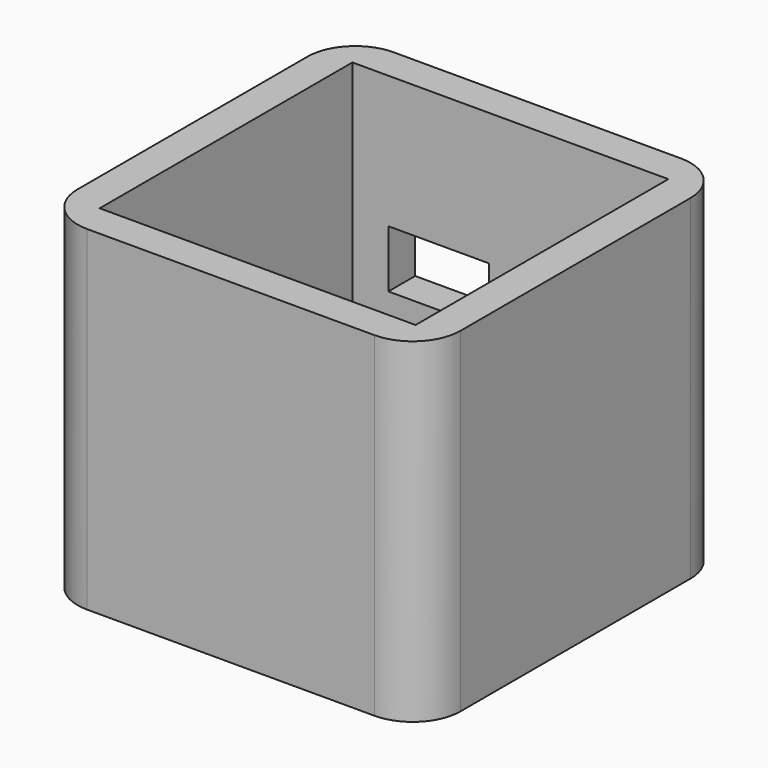
from build123d import *

# Parameters (mm, degrees)
SKETCH004_W     = 40
SKETCH004_H     = 40
PAD001_DEPTH    = 35
FILLET001_R     = 5
SKETCH005_W     = 33
SKETCH005_H     = 33
POCKET003_DEPTH = 7
SKETCH006_W     = 5
SKETCH006_H     = 20
POCKET004_DEPTH = 2
SKETCH007_R     = 3.5
PAD002_DEPTH    = 4
SKETCH009_W     = 33
SKETCH009_H     = 33
POCKET006_DEPTH = 31
SKETCH010_W     = 14
SKETCH010_H     = 8
POCKET007_DEPTH = 4
SKETCH011_W     = 10.5
SKETCH011_H     = 6
POCKET008_DEPTH = 4
PAD003_DEPTH    = 2
SKETCH013_R     = 1.5
POCKET009_DEPTH = 8
POCKET010_DEPTH = 2
PAD004_DEPTH    = 0.4


with BuildPart() as part:
    # Sketch004 → Pad001 (new body)
    with BuildSketch(Plane.XY):
        Rectangle(SKETCH004_W, SKETCH004_H)
    extrude(amount=PAD001_DEPTH)

    # Fillet001
    fillet001_edges = [part.edges().sort_by_distance(p)[0] for p in [
        (-20, -20, 17.5),
        (20, -20, 17.5),
        (20, 20, 17.5),
        (-20, 20, 17.5),
    ]]
    fillet(fillet001_edges, radius=FILLET001_R)

    # Sketch005 (on Face2 of Fillet001) → Pocket003 (cut)
    with BuildSketch(Plane(origin=(0, 0, 0), x_dir=(1, 0, 0), z_dir=(0, 0, -1))):
        Rectangle(SKETCH005_W, SKETCH005_H)
    extrude(amount=-POCKET003_DEPTH, mode=Mode.SUBTRACT)

    # Sketch006 (on Face15 of Pocket003) → Pocket004 (cut)
    with BuildSketch(Plane(origin=(0, 0, 7), x_dir=(1, 0, 0), z_dir=(0, 0, -1))):
        with Locations((13, 4)):
            Rectangle(SKETCH006_W, SKETCH006_H)
    extrude(amount=-POCKET004_DEPTH, mode=Mode.SUBTRACT)

    # Sketch007 (on Face15 of Pocket004) → Pad002 (join)
    with BuildSketch(Plane(origin=(0, 0, 7), x_dir=(1, 0, 0), z_dir=(0, 0, -1))):
        with Locations((-11, 11)):
            Circle(SKETCH007_R)
        with Locations((11, -11)):
            Circle(SKETCH007_R)
    extrude(amount=PAD002_DEPTH)

    # Sketch009 → Pocket006 (cut)
    with BuildSketch(Plane.XY.offset(40)):
        Rectangle(SKETCH009_W, SKETCH009_H)
    extrude(amount=-POCKET006_DEPTH, mode=Mode.SUBTRACT)

    # Sketch010 (on Face14 of Pocket006) → Pocket007 (cut)
    with BuildSketch(Plane.XZ.offset(-16.5)):
        with Locations((-6.75, 5.5)):
            Rectangle(SKETCH010_W, SKETCH010_H)
    extrude(amount=-POCKET007_DEPTH, mode=Mode.SUBTRACT)

    # Sketch011 (on Face17 of Pocket007) → Pocket008 (cut)
    with BuildSketch(Plane.XZ.offset(-16.5)):
        with Locations((-7.49469, 18.159044)):
            Rectangle(SKETCH011_W, SKETCH011_H)
    extrude(amount=-POCKET008_DEPTH, mode=Mode.SUBTRACT)

    # Sketch012 (on Face28 of Pocket008) → Pad003 (join)
    with BuildSketch(Plane.XY.offset(9)):
        with BuildLine():
            Line((16.5, 16.5), (6.5, 16.5))
            Line((6.5, 16.5), (6.5, 10.808341))
            ThreePointArc((6.5, 10.808341), (7.815135, 7.815135), (10.808341, 6.5))
            Line((10.808341, 6.5), (16.5, 6.5))
            Line((16.5, 6.5), (16.5, 16.5))
        make_face()
        with BuildLine():
            Line((-16.5, -16.5), (-6.5, -16.5))
            Line((-6.5, -16.5), (-6.5, -10.808341))
            ThreePointArc((-6.5, -10.808341), (-7.815135, -7.815135), (-10.808341, -6.5))
            Line((-10.808341, -6.5), (-16.5, -6.5))
            Line((-16.5, -6.5), (-16.5, -16.5))
        make_face()
    extrude(amount=PAD003_DEPTH)

    # Sketch013 (on Face45 of Pad003) → Pocket009 (cut)
    with BuildSketch(Plane(origin=(0, 0, 3), x_dir=(1, 0, 0), z_dir=(0, 0, -1))):
        with Locations((-11, 11)):
            Circle(SKETCH013_R)
        with Locations((11, -11)):
            Circle(SKETCH013_R)
    extrude(amount=-POCKET009_DEPTH, mode=Mode.SUBTRACT)

    # Sketch014 (on Face30 of Pocket009) → Pocket010 (cut)
    with BuildSketch(Plane.XY.offset(11)):
        Polygon((13.6, 11), (12.3, 13.251666), (9.7, 13.251666), (8.4, 11), (9.7, 8.748334), (12.3, 8.748334), align=None)
        Polygon((-8.4, -11), (-9.7, -8.748334), (-12.3, -8.748334), (-13.6, -11), (-12.3, -13.251666), (-9.7, -13.251666), align=None)
    extrude(amount=-POCKET010_DEPTH, mode=Mode.SUBTRACT)

    # Sketch015 (on Face27 of Pocket010) → Pad004 (join)
    with BuildSketch(Plane(origin=(0, 0, 7), x_dir=(1, 0, 0), z_dir=(0, 0, -1))):
        Polygon((-16.5, 16.5), (16.5, 16.5), (16.5, -16.5), (0.25, -16.5), (0.25, -13.5), (6, -13.5), (6, -6), (15.5, -6), (15.5, 14), (-6.25, 14), (-6.25, 6.5), (-13.75, 6.5), (-13.75, -16.5), (-16.5, -16.5), align=None)
    extrude(amount=PAD004_DEPTH)


with BuildPart() as part_1:
    # Body001 placement: moved
    add(part.part.moved(Location((0, 0, 3))))


solid = part_1.part
